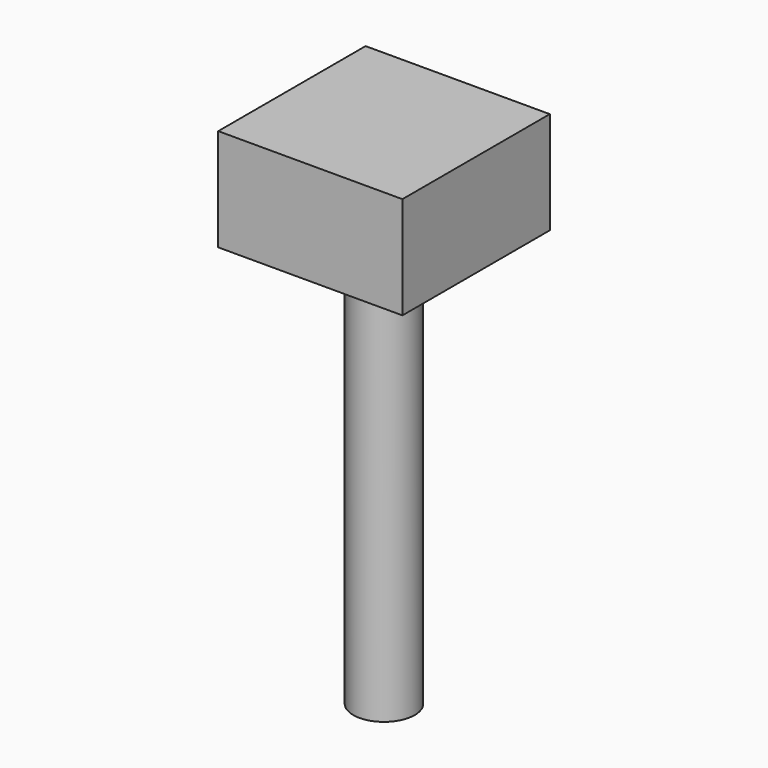
from build123d import *

# Parameters (mm, degrees)
SKETCH_W     = 9
SKETCH_H     = 9
PAD_DEPTH    = 5
SKETCH001_R  = 1.5
PAD001_DEPTH = 20
SKETCH002_W  = 7
SKETCH002_H  = 7
POCKET_DEPTH = 3


with BuildPart() as part:
    # Sketch → Pad (new body)
    with BuildSketch(Plane.XY):
        Rectangle(SKETCH_W, SKETCH_H)
    extrude(amount=PAD_DEPTH)

    # Sketch001 (on Face5 of Pad) → Pad001 (join)
    with BuildSketch(Plane(origin=(0, 0, 0), x_dir=(1, 0, 0), z_dir=(0, 0, -1))):
        Circle(SKETCH001_R)
    extrude(amount=PAD001_DEPTH)

    # Sketch002 → Pocket (cut)
    with BuildSketch(Plane.XY.offset(4)):
        Rectangle(SKETCH002_W, SKETCH002_H)
    extrude(amount=-POCKET_DEPTH, mode=Mode.SUBTRACT)


solid = part.part
